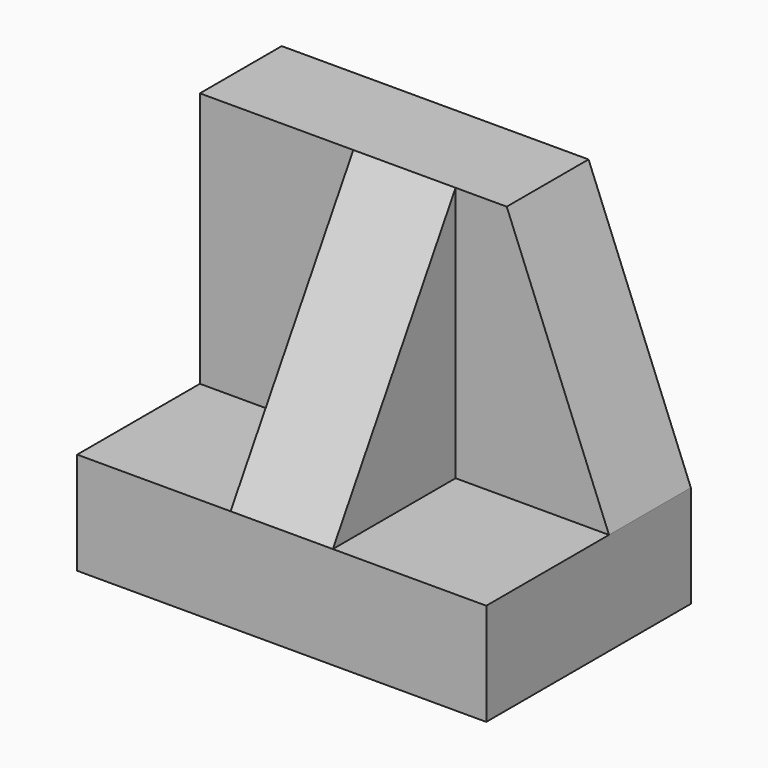
from build123d import *

# Parameters (mm, degrees)
F0_W      = 50.8
F0_H      = 31.75
F1_DEPTH  = 31.75
F2_W      = 19.05
F2_H      = 31.75
F3_DEPTH  = 19.05
F5_DEPTH  = 12.701
F7_DEPTH  = 19.05
F8_W      = 19.05
F8_H      = 31.75
F9_DEPTH  = 19.05
F10_W     = 50.8
F10_H     = 31.75
F11_DEPTH = 12.7


with BuildPart() as f1:
    # F0 (on Front) → F1 (new body)
    with BuildSketch(Plane.XZ):
        with Locations((25.4, 15.875)):
            Rectangle(F0_W, F0_H)
    extrude(amount=F1_DEPTH)

    # F2 (on face) → F3 (cut)
    with BuildSketch(Plane.XZ.offset(31.75)):
        with Locations((41.275, 15.875)):
            Rectangle(F2_W, F2_H)
    extrude(amount=-F3_DEPTH, mode=Mode.SUBTRACT)

    # F4 (on face) → F5 (cut, through all)
    with BuildSketch(Plane.XZ.offset(12.7)):
        Polygon((50.8, 31.75), (38.1, 31.75), (50.8, 0), align=None)
    extrude(amount=-F5_DEPTH, mode=Mode.SUBTRACT)

    # F6 (on face) → F7 (cut)
    with BuildSketch(Plane.YZ.offset(31.75)):
        Polygon((-31.75, 0), (-12.7, 31.75), (-31.75, 31.75), align=None)
    extrude(amount=-F7_DEPTH, mode=Mode.SUBTRACT)

    # F8 (on face) → F9 (cut)
    with BuildSketch(Plane(origin=(0, 0, 0), x_dir=(0, -1, 0), z_dir=(-1, 0, 0))):
        with Locations((22.225, 15.875)):
            Rectangle(F8_W, F8_H)
    extrude(amount=-F9_DEPTH, mode=Mode.SUBTRACT)


with BuildPart() as f11:
    # F10 (on face) → F11 (new body)
    with BuildSketch(Plane(origin=(0, 0, 0), x_dir=(1, 0, 0), z_dir=(0, 0, -1))):
        with Locations((25.4, 15.875)):
            Rectangle(F10_W, F10_H)
    extrude(amount=F11_DEPTH)


solid = Compound([f1.part, f11.part])
